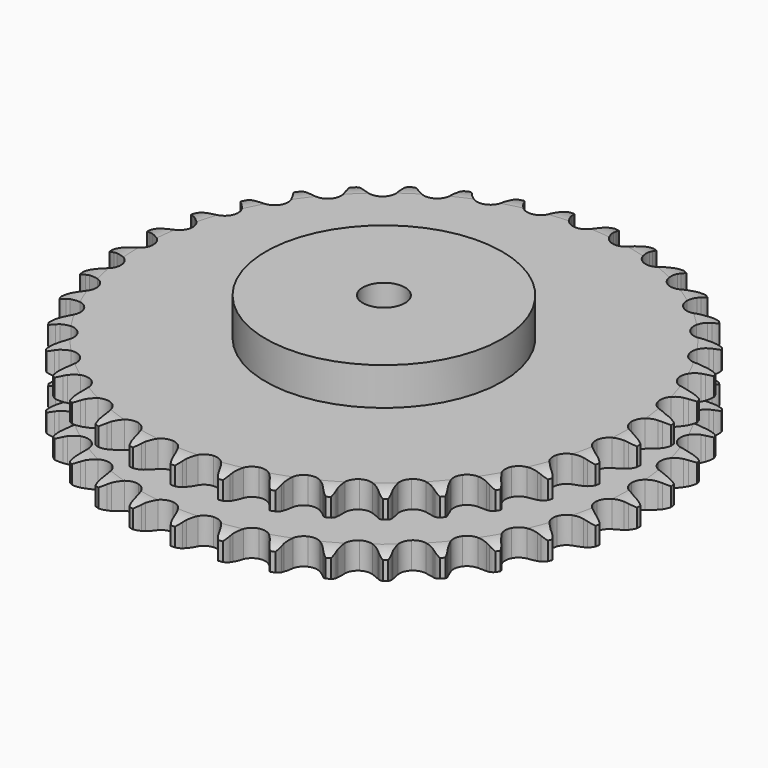
from build123d import *

# Parameters (mm, degrees)
PAD_DEPTH         = 47.7
SKETCH001_R       = 70
PAD001_DEPTH      = 70
SKETCH002_R       = 12.5
POCKET_DEPTH      = 0.0010001
POCKET_DEPTH_BACK = 70.001


with BuildPart() as part:
    # Sprocket → Pad (new body)
    with BuildSketch(Plane.XY):
        with BuildLine():
            ThreePointArc((-13.3922597526, 157.3476625122), (-11.4135772121, 155.0291712399), (-10.0337622337, 152.3113233779))
            Line((-10.0337622337, 152.3113233779), (-9.2592185727, 150.198798303))
            ThreePointArc((-9.2592185727, 150.198798303), (-8.0354856403, 147.4830671896), (-6.4350255175, 144.9708480182))
            ThreePointArc((-6.4350255175, 144.9708480182), (-3.6011982817, 142.5901358028), (0, 141.735888537))
            ThreePointArc((0, 141.735888537), (3.6011982817, 142.5901358028), (6.4350255175, 144.9708480182))
            ThreePointArc((6.4350255175, 144.9708480182), (8.0354856403, 147.4830671896), (9.2592185727, 150.198798303))
            Line((9.2592185727, 150.198798303), (10.0337622337, 152.3113233779))
            ThreePointArc((10.0337622337, 152.3113233779), (11.4135772121, 155.0291712399), (13.3922597526, 157.3476625122))
            ThreePointArc((13.3922597526, 157.3476625122), (14.9506538191, 154.7281216538), (15.851302897, 151.8161776958))
            Line((15.851302897, 151.8161776958), (16.2576869819, 149.6031408568))
            ThreePointArc((16.2576869819, 149.6031408568), (17.0048568442, 146.7196611939), (18.1577287043, 143.9730989346))
            ThreePointArc((18.1577287043, 143.9730989346), (20.5484515977, 141.1477119696), (23.9534814318, 139.6971468094))
            ThreePointArc((23.9534814318, 139.6971468094), (27.6472482432, 139.9305010421), (30.8426557714, 141.7980497521))
            Line((30.8426557714, 141.7980497521), (34.5097532672, 146.4735097882))
            ThreePointArc((34.5097532672, 146.4735097882), (35.0434602449, 147.4643482834), (35.6301742934, 148.424749599))
            ThreePointArc((35.6301742934, 148.424749599), (37.4494604076, 150.8703138304), (39.791508328, 152.8210567439))
            ThreePointArc((39.791508328, 152.8210567439), (40.8847817606, 149.9758257204), (41.2803549037, 146.9535569924))
            Line((41.2803549037, 146.9535569924), (41.3068884824, 144.70367343))
            ThreePointArc((41.3068884824, 144.70367343), (41.5560005579, 141.7353976774), (42.2281181309, 138.8335059258))
            ThreePointArc((42.2281181309, 138.8335059258), (44.1069599372, 135.6447254501), (47.2178648148, 133.6395725139))
            ThreePointArc((47.2178648148, 133.6395725139), (50.89793721, 133.2453205373), (54.3629989738, 134.5459797656))
            Line((54.3629989738, 134.5459797656), (58.7675051919, 138.5344450804))
            ThreePointArc((58.7675051919, 138.5344450804), (59.4609877991, 139.4208343489), (60.2015711103, 140.2682660104))
            ThreePointArc((60.2015711103, 140.2682660104), (62.4079908112, 142.3711921809), (65.0460276569, 143.8980674136))
            ThreePointArc((65.0460276569, 143.8980674136), (65.6427289695, 140.9089983413), (65.5218462589, 137.863350012))
            Line((65.5218462589, 137.863350012), (65.1677660084, 135.6413447799))
            ThreePointArc((65.1677660084, 135.6413447799), (64.9116537964, 132.6736648267), (65.0836814835, 129.699925725))
            ThreePointArc((65.0836814835, 129.699925725), (66.3965913445, 126.2394871471), (69.1238761964, 123.7374310343))
            ThreePointArc((69.1238761964, 123.7374310343), (72.6843851929, 122.7269147598), (76.3194176742, 123.4232669086))
            Line((76.3194176742, 123.4232669086), (81.33462299, 126.6099966168))
            ThreePointArc((81.33462299, 126.6099966168), (82.1679309947, 127.366436853), (83.0410783351, 128.0765197944))
            ThreePointArc((83.0410783351, 128.0765197944), (85.5711569452, 129.776310547), (88.4292911992, 130.8353926785))
            ThreePointArc((88.4292911992, 130.8353926785), (88.5122543814, 127.7884756324), (87.8783933924, 124.8070654589))
            Line((87.8783933924, 124.8070654589), (87.1538855571, 122.6768616021))
            ThreePointArc((87.1538855571, 122.6768616021), (86.3999169396, 119.7951521973), (86.0669058173, 116.8351148052))
            ThreePointArc((86.0669058173, 116.8351148052), (86.7761137069, 113.2025686425), (89.0413195134, 110.2755889519))
            ThreePointArc((89.0413195134, 110.2755889519), (92.37983575, 108.6778790929), (96.0802656825, 108.7498913788))
            Line((96.0802656825, 108.7498913788), (101.5618917703, 111.0432090687))
            ThreePointArc((101.5618917703, 111.0432090687), (102.5110524184, 111.6479388643), (103.4916449287, 112.2002452923))
            ThreePointArc((103.4916449287, 112.2002452923), (106.2725966928, 113.4480007417), (109.2686050365, 114.0088219073))
            ThreePointArc((109.2686050365, 114.0088219073), (108.8354433886, 110.9917111433), (107.7068391479, 108.1603088682))
            Line((107.7068391479, 108.1603088682), (106.6327464989, 106.1831884731))
            ThreePointArc((106.6327464989, 106.1831884731), (105.4026117803, 103.4703511496), (104.5741419724, 100.6091703537))
            ThreePointArc((104.5741419724, 100.6091703537), (104.6592452708, 96.9090183455), (106.3972061851, 93.6413189536))
            ThreePointArc((106.3972061851, 93.6413189536), (109.417686628, 91.5023787139), (113.0770593801, 90.9479794744))
            Line((113.0770593801, 90.9479794744), (118.8674098376, 92.2819105715))
            ThreePointArc((118.8674098376, 92.2819105715), (119.9051175054, 92.7175329515), (120.9649453245, 93.0961740156))
            ThreePointArc((120.9649453245, 93.0961740156), (123.9167673236, 93.8559985093), (126.9644600518, 93.9024249053))
            ThreePointArc((126.9644600518, 93.9024249053), (126.0276348457, 91.0019172068), (124.4367552424, 88.4019771184))
            Line((124.4367552424, 88.4019771184), (123.0439774698, 86.6348183391))
            ThreePointArc((123.0439774698, 86.6348183391), (121.3730653861, 84.1688964874), (120.0729704607, 81.4888832496))
            ThreePointArc((120.0729704607, 81.4888832496), (119.5315209008, 77.8275720324), (120.6922389518, 74.3131587014))
            ThreePointArc((120.6922389518, 74.3131587014), (123.3077898781, 71.6945214972), (126.8208319581, 70.5296597892))
            Line((126.8208319581, 70.5296597892), (132.7533289452, 70.8658295245))
            ThreePointArc((132.7533289452, 70.8658295245), (133.8497306724, 71.1198124259), (134.9583044837, 71.3138953122))
            ThreePointArc((134.9583044837, 71.3138953122), (137.9960781732, 71.5639300831), (141.0077787149, 71.0946261064))
            ThreePointArc((141.0077787149, 71.0946261064), (139.5942407062, 68.394163799), (137.5868524501, 66.1004814399))
            Line((137.5868524501, 66.1004814399), (135.9154572344, 64.594122217))
            ThreePointArc((135.9154572344, 64.594122217), (133.8518368842, 62.4460559192), (132.1175182051, 60.024309341))
            ThreePointArc((132.1175182051, 60.024309341), (130.965092305, 56.5071681723), (131.5151757476, 52.847144175))
            ThreePointArc((131.5151757476, 52.847144175), (133.6505525192, 49.824143431), (136.9162001028, 48.0823302048))
            Line((136.9162001028, 48.0823302048), (142.8201764824, 47.4110675871))
            ThreePointArc((142.8201764824, 47.4110675871), (143.9437307876, 47.4761043845), (145.0691589408, 47.4800456816))
            ThreePointArc((145.0691589408, 47.4800456816), (148.1054931026, 47.2130976844), (150.9945603167, 46.2415643561))
            ThreePointArc((150.9945603167, 46.2415643561), (149.1449744202, 43.8188348237), (146.7788264165, 41.8973952593))
            Line((146.7788264165, 41.8973952593), (144.8768967551, 40.695170805))
            ThreePointArc((144.8768967551, 40.695170805), (142.4799347385, 38.9267560174), (140.3612854964, 36.8329453386))
            ThreePointArc((140.3612854964, 36.8329453386), (138.6310364512, 33.5611559663), (138.5546603863, 29.8608135292))
            ThreePointArc((138.5546603863, 29.8608135292), (140.1484321014, 26.5204154728), (143.0727384533, 24.2517595237))
            Line((143.0727384533, 24.2517595237), (148.7783475743, 22.5923755564))
            ThreePointArc((148.7783475743, 22.5923755564), (149.8967318457, 22.4665952594), (151.0066378219, 22.2802815834))
            ThreePointArc((151.0066378219, 22.2802815834), (153.9541826504, 21.504030426), (156.6375033332, 20.0582169911))
            ThreePointArc((156.6375033332, 20.0582169911), (154.4050787677, 17.9829177512), (151.7482407864, 16.4889972994))
            Line((151.7482407864, 16.4889972994), (149.6704917328, 15.6254934224))
            ThreePointArc((149.6704917328, 15.6254934224), (147.009144283, 14.2876042187), (144.5671141592, 12.5819645603))
            ThreePointArc((144.5671141592, 12.5819645603), (142.3088180835, 9.6496504077), (141.6081797114, 6.0154416456))
            ThreePointArc((141.6081797114, 6.0154416456), (142.6144964596, 2.453743447), (145.1133346103, -0.2764901238))
            Line((145.1133346103, -0.2764901238), (150.4564364866, -2.8762579852))
            ThreePointArc((150.4564364866, -2.8762579852), (151.537476845, -3.1892369065), (152.59993067, -3.5604456503))
            ThreePointArc((152.59993067, -3.5604456503), (155.373890667, -4.8236686354), (157.7742705681, -6.7021687569))
            ThreePointArc((157.7742705681, -6.7021687569), (155.2232301237, -8.3703351235), (152.3521345562, -9.3937590913))
            Line((152.3521345562, -9.3937590913), (150.1583391677, -9.8937009566))
            ThreePointArc((150.1583391677, -9.8937009566), (147.3091684053, -10.7625759399), (144.6140101603, -12.0309764304))
            ThreePointArc((144.6140101603, -12.0309764304), (141.8926341206, -14.539458024), (140.5878895317, -18.0029835419))
            ThreePointArc((140.5878895317, -18.0029835419), (140.9778014122, -21.6835183101), (142.9792843378, -24.7967856539))
            Line((142.9792843378, -24.7967856539), (147.8061676564, -28.2621468215))
            ThreePointArc((147.8061676564, -28.2621468215), (148.8187645389, -28.7533205332), (149.8032013507, -29.2987453451))
            ThreePointArc((149.8032013507, -29.2987453451), (152.3237747377, -31.0125995326), (154.3721592975, -33.2697453123))
            ThreePointArc((154.3721592975, -33.2697453123), (151.5758917633, -34.4827886966), (148.5731348017, -35.0062741362))
            Line((148.5731348017, -35.0062741362), (146.3264045774, -35.1282715726))
            ThreePointArc((146.3264045774, -35.1282715726), (143.3713759578, -35.5031363841), (140.5006243872, -36.2978081339))
            ThreePointArc((140.5006243872, -36.2978081339), (137.3944574174, -38.3102927203), (135.5231417378, -41.5034956708))
            ThreePointArc((135.5231417378, -41.5034956708), (135.2854316958, -45.1969847246), (136.7319803766, -48.6037228081))
            Line((136.7319803766, -48.6037228081), (140.9037844928, -52.8349851504))
            ThreePointArc((140.9037844928, -52.8349851504), (141.8188073308, -53.4902234793), (142.6969066745, -54.1941734805))
            ThreePointArc((142.6969066745, -54.1941734805), (144.8915811444, -56.3093544058), (146.5290420687, -58.8802118691))
            ThreePointArc((146.5290420687, -58.8802118691), (143.5679909703, -59.6032352215), (140.5199564654, -59.6117224099))
            Line((140.5199564654, -59.6117224099), (138.2849257432, -59.3522657733))
            ThreePointArc((138.2849257432, -59.3522657733), (135.3090500595, -59.222336235), (132.3452914593, -59.5204179847))
            ThreePointArc((132.3452914593, -59.5204179847), (128.9436923276, -60.9790100464), (126.5596399025, -63.8100277944))
            ThreePointArc((126.5596399025, -63.8100277944), (125.7011464231, -67.4102161785), (126.5511462873, -71.0124193496))
            Line((126.5511462873, -71.0124193496), (129.9478559922, -75.8878571529))
            ThreePointArc((129.9478559922, -75.8878571529), (130.7389812445, -76.6883100852), (131.4854818009, -77.5305339159))
            ThreePointArc((131.4854818009, -77.5305339159), (133.291120565, -79.9861916749), (134.4705510843, -82.7968019335))
            ThreePointArc((134.4705510843, -82.7968019335), (131.4299004707, -83.0090051885), (128.4242748256, -82.5022499647))
            Line((128.4242748256, -82.5022499647), (126.2652413701, -81.8688033501))
            ThreePointArc((126.2652413701, -81.8688033501), (123.3541291476, -81.2378172982), (120.3826254566, -81.0307337786))
            ThreePointArc((120.3826254566, -81.0307337786), (116.7834519768, -81.8934722777), (113.9552476538, -84.2808615971))
            ThreePointArc((113.9552476538, -84.2808615971), (112.5006680313, -87.6841784464), (112.7296661304, -91.3782178785))
            Line((112.7296661304, -91.3782178785), (115.2535642702, -96.7575736739))
            ThreePointArc((115.2535642702, -96.7575736739), (115.8980327038, -97.680213636), (116.4914590109, -98.63648205))
            ThreePointArc((116.4914590109, -98.63648205), (117.8561171294, -101.36197184), (118.5435871752, -104.3314787539))
            ThreePointArc((118.5435871752, -104.3314787539), (115.5108110284, -104.0267572103), (112.6340606205, -103.0193379994))
            Line((112.6340606205, -103.0193379994), (110.6131358933, -102.0301245127))
            ThreePointArc((110.6131358933, -102.0301245127), (107.8505345304, -100.916234267), (104.9567704996, -100.209942894))
            ThreePointArc((104.9567704996, -100.209942894), (101.2635643397, -100.4520084146), (98.0725704078, -102.3270884614))
            ThreePointArc((98.0725704078, -102.3270884614), (96.0637502497, -105.4356265466), (95.6651587253, -109.1152314509))
            Line((95.6651587253, -109.1152314509), (97.2436373457, -114.8437509663))
            ThreePointArc((97.2436373457, -114.8437509663), (97.7229087772, -115.8620352864), (98.1461890407, -116.9048381826))
            ThreePointArc((98.1461890407, -116.9048381826), (99.0306077842, -119.8217526245), (99.2063400947, -122.8647288864))
            ThreePointArc((99.2063400947, -122.8647288864), (96.2686858628, -122.0518488281), (93.6035695637, -120.5727472468))
            Line((93.6035695637, -120.5727472468), (91.7788918898, -119.2562247588))
            ThreePointArc((91.7788918898, -119.2562247588), (89.2442763978, -117.6914749137), (86.5115003496, -116.5062944042))
            ThreePointArc((86.5115003496, -116.5062944042), (82.8305083267, -116.120723162), (79.3685238715, -117.4295512971))
            ThreePointArc((79.3685238715, -117.4295512971), (76.8632532763, -120.1538836372), (75.8485388808, -123.7131984801))
            Line((75.8485388808, -123.7131984801), (76.4361880259, -129.6260826389))
            ThreePointArc((76.4361880259, -129.6260826389), (76.7364746887, -130.7107171312), (76.9774319061, -131.8100549687))
            ThreePointArc((76.9774319061, -131.8100549687), (77.3561681576, -134.834479745), (77.0151072343, -137.8633844682))
            ThreePointArc((77.0151072343, -137.8633844682), (74.2570858809, -136.5657309745), (71.8802742342, -134.6574980821))
            Line((71.8802742342, -134.6574980821), (70.3043362679, -133.0515405479))
            ThreePointArc((70.3043362679, -133.0515405479), (68.0706229198, -131.0809461075), (65.5774518456, -129.4509719467))
            ThreePointArc((65.5774518456, -129.4509719467), (62.0145693983, -128.4488561244), (58.3811894094, -129.1537797454))
            ThreePointArc((58.3811894094, -129.1537797454), (55.4515404506, -131.4155322592), (53.8498946697, -134.7521620331))
            Line((53.8498946697, -134.7521620331), (53.4298087436, -140.6793079236))
            ThreePointArc((53.4298087436, -140.6793079236), (53.5424719371, -141.7990896284), (53.5941742079, -142.9233364594))
            ThreePointArc((53.5941742079, -142.9233364594), (53.456332415, -145.9682643757), (52.6082899598, -148.895961486))
            ThreePointArc((52.6082899598, -148.895961486), (50.1092447377, -147.1508656853), (48.089114287, -144.8683978678))
            Line((48.089114287, -144.8683978678), (46.8072528944, -143.0192057617))
            ThreePointArc((46.8072528944, -143.0192057617), (44.9387015563, -140.6994571403), (42.7568594487, -138.6715807172))
            ThreePointArc((42.7568594487, -138.6715807172), (39.4145842179, -137.0817493624), (35.7143344223, -137.1624891002))
            ThreePointArc((35.7143344223, -137.1624891002), (32.4445877666, -138.8965952858), (30.3020870333, -141.914551227))
            Line((30.3020870333, -141.914551227), (28.8863511431, -147.6854456535))
            ThreePointArc((28.8863511431, -147.6854456535), (28.8081497525, -148.80816049), (28.6691096965, -149.9249737799))
            ThreePointArc((28.6691096965, -149.9249737799), (28.0186553167, -152.9028078041), (26.6880279668, -155.645072786))
            ThreePointArc((26.6880279668, -155.645072786), (24.5198518571, -153.5027379073), (22.9145180775, -150.9116976082))
            Line((22.9145180775, -150.9116976082), (21.9636100769, -148.8724688202))
            ThreePointArc((21.9636100769, -148.8724688202), (20.5139755687, -146.2703009619), (18.7062300526, -143.9028605892))
            ThreePointArc((18.7062300526, -143.9028605892), (15.6807132115, -141.7710502554), (12.0200430587, -141.2252833746))
            ThreePointArc((12.0200430587, -141.2252833746), (8.5042633642, -142.3818561544), (5.8825435238, -144.9943171652))
            Line((5.8825435238, -144.9943171652), (3.5118858135, -150.4429420021))
            ThreePointArc((3.5118858135, -150.4429420021), (3.2450695503, -151.5362915087), (2.9192870969, -152.6135425726))
            ThreePointArc((2.9192870969, -152.6135425726), (1.7749325182, -155.4386158413), (0, -157.9165587243))
            ThreePointArc((0, -157.9165587243), (-1.7749325182, -155.4386158413), (-2.9192870969, -152.6135425726))
            Line((-2.9192870969, -152.6135425726), (-3.5118858135, -150.4429420021))
            ThreePointArc((-3.5118858135, -150.4429420021), (-4.5009001463, -147.6332145386), (-5.8825435238, -144.9943171652))
            ThreePointArc((-5.8825435238, -144.9943171652), (-8.5042633642, -142.3818561544), (-12.0200430587, -141.2252833746))
            ThreePointArc((-12.0200430587, -141.2252833746), (-15.6807132115, -141.7710502554), (-18.7062300526, -143.9028605892))
            Line((-18.7062300526, -143.9028605892), (-21.9636100769, -148.8724688202))
            ThreePointArc((-21.9636100769, -148.8724688202), (-22.4113653945, -149.904999322), (-22.9145180775, -150.9116976082))
            ThreePointArc((-22.9145180775, -150.9116976082), (-24.5198518571, -153.5027379073), (-26.6880279668, -155.645072786))
            ThreePointArc((-26.6880279668, -155.645072786), (-28.0186553167, -152.9028078041), (-28.6691096965, -149.9249737799))
            Line((-28.6691096965, -149.9249737799), (-28.8863511431, -147.6854456535))
            ThreePointArc((-28.8863511431, -147.6854456535), (-29.3862931589, -144.7489893281), (-30.3020870333, -141.914551227))
            ThreePointArc((-30.3020870333, -141.914551227), (-32.4445877666, -138.8965952858), (-35.7143344223, -137.1624891002))
            ThreePointArc((-35.7143344223, -137.1624891002), (-39.4145842179, -137.0817493624), (-42.7568594487, -138.6715807172))
            Line((-42.7568594487, -138.6715807172), (-46.8072528944, -143.0192057617))
            ThreePointArc((-46.8072528944, -143.0192057617), (-47.4230661612, -143.9612132362), (-48.089114287, -144.8683978678))
            ThreePointArc((-48.089114287, -144.8683978678), (-50.1092447377, -147.1508656853), (-52.6082899598, -148.895961486))
            ThreePointArc((-52.6082899598, -148.895961486), (-53.456332415, -145.9682643757), (-53.5941742079, -142.9233364594))
            Line((-53.5941742079, -142.9233364594), (-53.4298087436, -140.6793079236))
            ThreePointArc((-53.4298087436, -140.6793079236), (-53.4262960207, -137.7005992385), (-53.8498946697, -134.7521620331))
            ThreePointArc((-53.8498946697, -134.7521620331), (-55.4515404506, -131.4155322592), (-58.3811894094, -129.1537797454))
            ThreePointArc((-58.3811894094, -129.1537797454), (-62.0145693983, -128.4488561244), (-65.5774518456, -129.4509719467))
            Line((-65.5774518456, -129.4509719467), (-70.3043362679, -133.0515405479))
            ThreePointArc((-70.3043362679, -133.0515405479), (-71.0704916574, -133.8759251552), (-71.8802742342, -134.6574980821))
            ThreePointArc((-71.8802742342, -134.6574980821), (-74.2570858809, -136.5657309745), (-77.0151072343, -137.8633844682))
            ThreePointArc((-77.0151072343, -137.8633844682), (-77.3561681576, -134.834479745), (-76.9774319061, -131.8100549687))
            Line((-76.9774319061, -131.8100549687), (-76.4361880259, -129.6260826389))
            ThreePointArc((-76.4361880259, -129.6260826389), (-75.9293216191, -126.6908136196), (-75.8485388808, -123.7131984801))
            ThreePointArc((-75.8485388808, -123.7131984801), (-76.8632532763, -120.1538836372), (-79.3685238715, -117.4295512971))
            ThreePointArc((-79.3685238715, -117.4295512971), (-82.8305083267, -116.120723162), (-86.5115003496, -116.5062944042))
            Line((-86.5115003496, -116.5062944042), (-91.7788918898, -119.2562247588))
            ThreePointArc((-91.7788918898, -119.2562247588), (-92.6733485064, -119.9392704547), (-93.6035695637, -120.5727472468))
            ThreePointArc((-93.6035695637, -120.5727472468), (-96.2686858628, -122.0518488281), (-99.2063400947, -122.8647288864))
            ThreePointArc((-99.2063400947, -122.8647288864), (-99.0306077842, -119.8217526245), (-98.1461890407, -116.9048381826))
            Line((-98.1461890407, -116.9048381826), (-97.2436373457, -114.8437509663))
            ThreePointArc((-97.2436373457, -114.8437509663), (-96.2479988786, -112.0363639583), (-95.6651587253, -109.1152314509))
            ThreePointArc((-95.6651587253, -109.1152314509), (-96.0637502497, -105.4356265466), (-98.0725704078, -102.3270884614))
            ThreePointArc((-98.0725704078, -102.3270884614), (-101.2635643397, -100.4520084146), (-104.9567704996, -100.209942894))
            Line((-104.9567704996, -100.209942894), (-110.6131358933, -102.0301245127))
            ThreePointArc((-110.6131358933, -102.0301245127), (-111.6101618487, -102.5521813161), (-112.6340606205, -103.0193379994))
            ThreePointArc((-112.6340606205, -103.0193379994), (-115.5108110284, -104.0267572103), (-118.5435871752, -104.3314787539))
            ThreePointArc((-118.5435871752, -104.3314787539), (-117.8561171294, -101.36197184), (-116.4914590109, -98.63648205))
            Line((-116.4914590109, -98.63648205), (-115.2535642702, -96.7575736739))
            ThreePointArc((-115.2535642702, -96.7575736739), (-113.7977964487, -94.15883209), (-112.7296661304, -91.3782178785))
            ThreePointArc((-112.7296661304, -91.3782178785), (-112.5006680313, -87.6841784464), (-113.9552476538, -84.2808615971))
            ThreePointArc((-113.9552476538, -84.2808615971), (-116.7834519768, -81.8934722777), (-120.3826254566, -81.0307337786))
            Line((-120.3826254566, -81.0307337786), (-126.2652413701, -81.8688033501))
            ThreePointArc((-126.2652413701, -81.8688033501), (-127.3361540428, -82.2148526373), (-128.4242748256, -82.5022499647))
            ThreePointArc((-128.4242748256, -82.5022499647), (-131.4299004707, -83.0090051885), (-134.4705510843, -82.7968019335))
            ThreePointArc((-134.4705510843, -82.7968019335), (-133.291120565, -79.9861916749), (-131.4854818009, -77.5305339159))
            Line((-131.4854818009, -77.5305339159), (-129.9478559922, -75.8878571529))
            ThreePointArc((-129.9478559922, -75.8878571529), (-128.0738386061, -73.572522057), (-126.5511462873, -71.0124193496))
            ThreePointArc((-126.5511462873, -71.0124193496), (-125.7011464231, -67.4102161785), (-126.5596399025, -63.8100277944))
            ThreePointArc((-126.5596399025, -63.8100277944), (-128.9436923276, -60.9790100464), (-132.3452914593, -59.5204179847))
            Line((-132.3452914593, -59.5204179847), (-138.2849257432, -59.3522657733))
            ThreePointArc((-138.2849257432, -59.3522657733), (-139.3989169254, -59.5123523364), (-140.5199564654, -59.6117224099))
            ThreePointArc((-140.5199564654, -59.6117224099), (-143.5679909703, -59.6032352215), (-146.5290420687, -58.8802118691))
            ThreePointArc((-146.5290420687, -58.8802118691), (-144.8915811444, -56.3093544058), (-142.6969066745, -54.1941734805))
            Line((-142.6969066745, -54.1941734805), (-140.9037844928, -52.8349851504))
            ThreePointArc((-140.9037844928, -52.8349851504), (-138.6654296103, -50.8696645175), (-136.7319803766, -48.6037228081))
            ThreePointArc((-136.7319803766, -48.6037228081), (-135.2854316958, -45.1969847246), (-135.5231417378, -41.5034956708))
            ThreePointArc((-135.5231417378, -41.5034956708), (-137.3944574174, -38.3102927203), (-140.5006243872, -36.2978081339))
            Line((-140.5006243872, -36.2978081339), (-146.3264045774, -35.1282715726))
            ThreePointArc((-146.3264045774, -35.1282715726), (-147.451426771, -35.0977900126), (-148.5731348017, -35.0062741362))
            ThreePointArc((-148.5731348017, -35.0062741362), (-151.5758917633, -34.4827886966), (-154.3721592975, -33.2697453123))
            ThreePointArc((-154.3721592975, -33.2697453123), (-152.3237747377, -31.0125995326), (-149.8032013507, -29.2987453451))
            Line((-149.8032013507, -29.2987453451), (-147.8061676564, -28.2621468215))
            ThreePointArc((-147.8061676564, -28.2621468215), (-145.2678686721, -26.7033793481), (-142.9792843378, -24.7967856539))
            ThreePointArc((-142.9792843378, -24.7967856539), (-140.9778014122, -21.6835183101), (-140.5878895317, -18.0029835419))
            ThreePointArc((-140.5878895317, -18.0029835419), (-141.8926341206, -14.539458024), (-144.6140101603, -12.0309764304))
            Line((-144.6140101603, -12.0309764304), (-150.1583391677, -9.8937009566))
            ThreePointArc((-150.1583391677, -9.8937009566), (-151.2620275326, -9.6735281725), (-152.3521345562, -9.3937590913))
            ThreePointArc((-152.3521345562, -9.3937590913), (-155.2232301237, -8.3703351235), (-157.7742705681, -6.7021687569))
            ThreePointArc((-157.7742705681, -6.7021687569), (-155.373890667, -4.8236686354), (-152.59993067, -3.5604456503))
            Line((-152.59993067, -3.5604456503), (-150.4564364866, -2.8762579852))
            ThreePointArc((-150.4564364866, -2.8762579852), (-147.6912156407, -1.7688865736), (-145.1133346103, -0.2764901238))
            ThreePointArc((-145.1133346103, -0.2764901238), (-142.6144964596, 2.453743447), (-141.6081797114, 6.0154416456))
            ThreePointArc((-141.6081797114, 6.0154416456), (-142.3088180835, 9.6496504077), (-144.5671141592, 12.5819645603))
            Line((-144.5671141592, 12.5819645603), (-149.6704917328, 15.6254934224))
            ThreePointArc((-149.6704917328, 15.6254934224), (-150.7210951642, 16.0290234606), (-151.7482407864, 16.4889972994))
            ThreePointArc((-151.7482407864, 16.4889972994), (-154.4050787677, 17.9829177512), (-156.6375033332, 20.0582169911))
            ThreePointArc((-156.6375033332, 20.0582169911), (-153.9541826504, 21.504030426), (-151.0066378219, 22.2802815834))
            Line((-151.0066378219, 22.2802815834), (-148.7783475743, 22.5923755564))
            ThreePointArc((-148.7783475743, 22.5923755564), (-145.865755236, 23.2164938471), (-143.0727384533, 24.2517595237))
            ThreePointArc((-143.0727384533, 24.2517595237), (-140.1484321014, 26.5204154728), (-138.5546603863, 29.8608135292))
            ThreePointArc((-138.5546603863, 29.8608135292), (-138.6310364512, 33.5611559663), (-140.3612854964, 36.8329453386))
            Line((-140.3612854964, 36.8329453386), (-144.8768967551, 40.695170805))
            ThreePointArc((-144.8768967551, 40.695170805), (-145.844191305, 41.2704492726), (-146.7788264165, 41.8973952593))
            ThreePointArc((-146.7788264165, 41.8973952593), (-149.1449744202, 43.8188348237), (-150.9945603167, 46.2415643561))
            ThreePointArc((-150.9945603167, 46.2415643561), (-148.1054931026, 47.2130976844), (-145.0691589408, 47.4800456816))
            Line((-145.0691589408, 47.4800456816), (-142.8201764824, 47.4110675871))
            ThreePointArc((-142.8201764824, 47.4110675871), (-139.8440026304, 47.5339780099), (-136.9162001028, 48.0823302048))
            ThreePointArc((-136.9162001028, 48.0823302048), (-133.6505525192, 49.824143431), (-131.5151757476, 52.847144175))
            ThreePointArc((-131.5151757476, 52.847144175), (-130.965092305, 56.5071681723), (-132.1175182051, 60.024309341))
            Line((-132.1175182051, 60.024309341), (-135.9154572344, 64.594122217))
            ThreePointArc((-135.9154572344, 64.594122217), (-136.7716155999, 65.3245994), (-137.5868524501, 66.1004814399))
            ThreePointArc((-137.5868524501, 66.1004814399), (-139.5942407062, 68.394163799), (-141.0077787149, 71.0946261064))
            ThreePointArc((-141.0077787149, 71.0946261064), (-137.9960781732, 71.5639300831), (-134.9583044837, 71.3138953122))
            Line((-134.9583044837, 71.3138953122), (-132.7533289452, 70.8658295245))
            ThreePointArc((-132.7533289452, 70.8658295245), (-129.7991926824, 70.4839961703), (-126.8208319581, 70.5296597892))
            ThreePointArc((-126.8208319581, 70.5296597892), (-123.3077898781, 71.6945214972), (-120.6922389518, 74.3131587014))
            ThreePointArc((-120.6922389518, 74.3131587014), (-119.5315209008, 77.8275720324), (-120.0729704607, 81.4888832496))
            Line((-120.0729704607, 81.4888832496), (-123.0439774698, 86.6348183391))
            ThreePointArc((-123.0439774698, 86.6348183391), (-123.7643695334, 87.4994797389), (-124.4367552424, 88.4019771184))
            ThreePointArc((-124.4367552424, 88.4019771184), (-126.0276348457, 91.0019172068), (-126.9644600518, 93.9024249053))
            ThreePointArc((-126.9644600518, 93.9024249053), (-123.9167673236, 93.8559985093), (-120.9649453245, 93.0961740156))
            Line((-120.9649453245, 93.0961740156), (-118.8674098376, 92.2819105715))
            ThreePointArc((-118.8674098376, 92.2819105715), (-116.0202962857, 91.4063180908), (-113.0770593801, 90.9479794744))
            ThreePointArc((-113.0770593801, 90.9479794744), (-109.417686628, 91.5023787139), (-106.3972061851, 93.6413189536))
            ThreePointArc((-106.3972061851, 93.6413189536), (-104.6592452708, 96.9090183455), (-104.5741419724, 100.6091703537))
            Line((-104.5741419724, 100.6091703537), (-106.6327464989, 106.1831884731))
            ThreePointArc((-106.6327464989, 106.1831884731), (-107.1966478927, 107.1571593556), (-107.7068391479, 108.1603088682))
            ThreePointArc((-107.7068391479, 108.1603088682), (-108.8354433886, 110.9917111433), (-109.2686050365, 114.0088219073))
            ThreePointArc((-109.2686050365, 114.0088219073), (-106.2725966928, 113.4480007417), (-103.4916449287, 112.2002452923))
            Line((-103.4916449287, 112.2002452923), (-101.5618917703, 111.0432090687))
            ThreePointArc((-101.5618917703, 111.0432090687), (-98.9037072025, 109.6990466629), (-96.0802656825, 108.7498913788))
            ThreePointArc((-96.0802656825, 108.7498913788), (-92.37983575, 108.6778790929), (-89.0413195134, 110.2755889519))
            ThreePointArc((-89.0413195134, 110.2755889519), (-86.7761137069, 113.2025686425), (-86.0669058173, 116.8351148052))
            Line((-86.0669058173, 116.8351148052), (-87.1538855571, 122.6768616021))
            ThreePointArc((-87.1538855571, 122.6768616021), (-87.5450738645, 123.7321225981), (-87.8783933924, 124.8070654589))
            ThreePointArc((-87.8783933924, 124.8070654589), (-88.5122543814, 127.7884756324), (-88.4292911992, 130.8353926785))
            ThreePointArc((-88.4292911992, 130.8353926785), (-85.5711569452, 129.776310547), (-83.0410783351, 128.0765197944))
            Line((-83.0410783351, 128.0765197944), (-81.33462299, 126.6099966168))
            ThreePointArc((-81.33462299, 126.6099966168), (-78.9418385366, 124.835933391), (-76.3194176742, 123.4232669086))
            ThreePointArc((-76.3194176742, 123.4232669086), (-72.6843851929, 122.7269147598), (-69.1238761964, 123.7374310343))
            ThreePointArc((-69.1238761964, 123.7374310343), (-66.3965913445, 126.2394871471), (-65.0836814835, 129.699925725))
            Line((-65.0836814835, 129.699925725), (-65.1677660084, 135.6413447799))
            ThreePointArc((-65.1677660084, 135.6413447799), (-65.3749874542, 136.747537952), (-65.5218462589, 137.863350012))
            ThreePointArc((-65.5218462589, 137.863350012), (-65.6427289695, 140.9089983413), (-65.0460276569, 143.8980674136))
            ThreePointArc((-65.0460276569, 143.8980674136), (-62.4079908112, 142.3711921809), (-60.2015711103, 140.2682660104))
            Line((-60.2015711103, 140.2682660104), (-58.7675051919, 138.5344450804))
            ThreePointArc((-58.7675051919, 138.5344450804), (-56.708956905, 136.3815176037), (-54.3629989738, 134.5459797656))
            ThreePointArc((-54.3629989738, 134.5459797656), (-50.89793721, 133.2453205373), (-47.2178648148, 133.6395725139))
            ThreePointArc((-47.2178648148, 133.6395725139), (-44.1069599372, 135.6447254501), (-42.2281181309, 138.8335059258))
            Line((-42.2281181309, 138.8335059258), (-41.3068884824, 144.70367343))
            ThreePointArc((-41.3068884824, 144.70367343), (-41.3241816828, 145.8289756147), (-41.2803549037, 146.9535569924))
            ThreePointArc((-41.2803549037, 146.9535569924), (-40.8847817606, 149.9758257204), (-39.791508328, 152.8210567439))
            ThreePointArc((-39.791508328, 152.8210567439), (-37.4494604076, 150.8703138304), (-35.6301742934, 148.424749599))
            Line((-35.6301742934, 148.424749599), (-34.5097532672, 146.4735097882))
            ThreePointArc((-34.5097532672, 146.4735097882), (-32.8446618331, 144.0036538641), (-30.8426557714, 141.7980497521))
            ThreePointArc((-30.8426557714, 141.7980497521), (-27.6472482432, 139.9305010421), (-23.9534814318, 139.6971468094))
            ThreePointArc((-23.9534814318, 139.6971468094), (-20.5484515977, 141.1477119696), (-18.1577287043, 143.9730989346))
            Line((-18.1577287043, 143.9730989346), (-16.2576869819, 149.6031408568))
            ThreePointArc((-16.2576869819, 149.6031408568), (-16.0845544431, 150.7151791591), (-15.851302897, 151.8161776958))
            ThreePointArc((-15.851302897, 151.8161776958), (-14.9506538191, 154.7281216538), (-13.3922597526, 157.3476625122))
        make_face()
    extrude(amount=PAD_DEPTH)

    # Sketch → Groove (revolve, cut)
    with BuildSketch(Plane.XZ):
        with BuildLine():
            ThreePointArc((145.1757022694, 0), (150.8765793949, 0.6326982121), (156.3, 2.5))
            Line((156.3, 2.5), (156.3, 13.3))
            ThreePointArc((156.3, 13.3), (150.8765793949, 15.1673017879), (145.1757022694, 15.8))
            Line((70, 15.8), (145.1757022694, 15.8))
            Line((70, 31.9), (70, 15.8))
            Line((145.1757022694, 31.9), (70, 31.9))
            ThreePointArc((145.1757022694, 31.9), (150.8765793949, 32.5326982121), (156.3, 34.4))
            Line((156.3, 34.4), (156.3, 45.2))
            ThreePointArc((156.3, 45.2), (150.8765793949, 47.0673017879), (145.1757022694, 47.7))
            Line((145.1757022694, 47.7), (166.3, 47.7))
            Line((166.3, 47.7), (166.3, 0))
            Line((145.1757022694, 0), (166.3, 0))
        make_face()
    revolve(axis=Axis((0, 0, 0), (0, 0, 1)), mode=Mode.SUBTRACT)

    # Sketch001 → Pad001 (join)
    with BuildSketch(Plane.XY):
        Circle(SKETCH001_R)
    extrude(amount=PAD001_DEPTH)

    # Sketch002 → Pocket (cut, two sides)
    with BuildSketch(Plane.XY) as pocket_sk:
        Circle(SKETCH002_R)
    extrude(amount=-POCKET_DEPTH, mode=Mode.SUBTRACT)
    extrude(pocket_sk.sketch, amount=POCKET_DEPTH_BACK, mode=Mode.SUBTRACT)


solid = part.part
